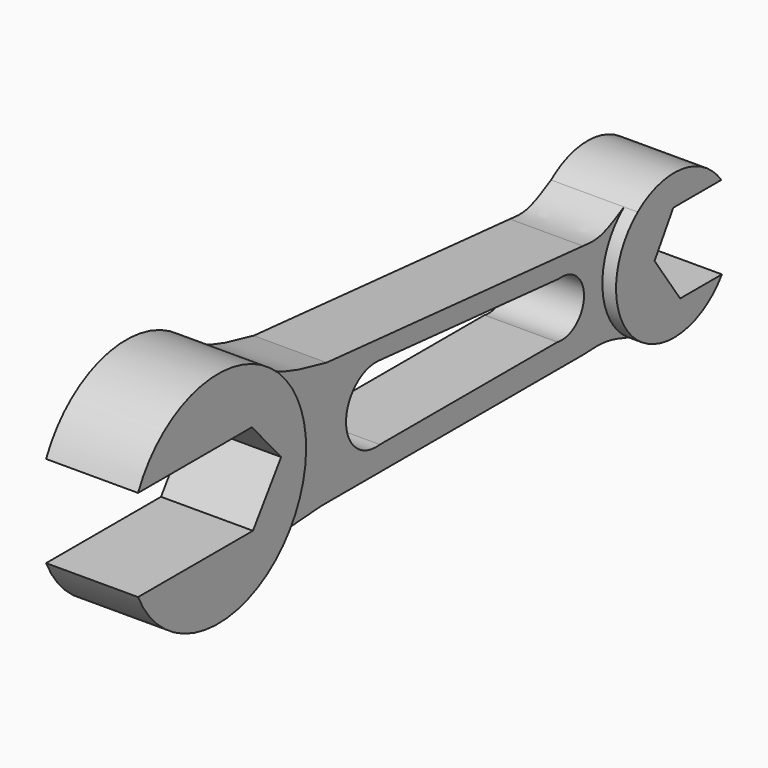
from build123d import *

# Parameters (mm, degrees)
F1_DEPTH = 19.77278
F2_DEPTH = 15.68583
F3_DEPTH = 18.63252


with BuildPart() as f1:
    # F0 (on Right) → F1 (new body)
    with BuildSketch(Plane.YZ):
        with BuildLine():
            ThreePointArc((-24.6550113916, -20.6403282086), (-14.2899358418, -2.9499328055), (-21.631764082, 16.1937982509))
            ThreePointArc((-21.631764082, 16.1937982509), (-42.3952279546, 22.2110941878), (-59.3834631145, 8.8421320543))
            Line((-59.3834631145, 8.8421320543), (-28.7830121815, 8.8421320543))
            Line((-28.7830121815, 8.8421320543), (-20.9254194051, 0))
            Line((-20.9254194051, 0), (-28.4993667156, -10.8708310872))
            Line((-28.4993667156, -10.8708310872), (-59.3834631145, -10.8708310872))
            ThreePointArc((-59.3834631145, -10.8708310872), (-44.2799639395, -23.7919746243), (-24.6550113916, -20.6403282086))
        make_face()
    extrude(amount=F1_DEPTH)

    # F0 (on Right) → F2 (join)
    with BuildSketch(Plane.YZ):
        with BuildLine():
            ThreePointArc((77.5488621059, -18.7172400394), (70.5319981338, -6.4315126272), (76.3324780773, 6.4731342287))
            add(Edge.make_bspline(
                [(65.274477005, 3.5741054453), (66.7329266753, 3.4044171276), (70.0264053954, 3.0170299241), (74.0730411994, 5.2423594483), (76.3324780773, 6.4731342287)],
                knots=[0, 0, 0, 0, 0.4431105797, 1, 1, 1, 1], degree=3))
            Line((65.274477005, 3.5741054453), (-3.5807129461, 9.5008024946))
            add(Edge.make_bspline(
                [(-3.5807129461, 9.5008024946), (-8.1850167721, 10.4946023635), (-16.0626627691, 12.1809603216), (-19.9918558673, 15.0252283967), (-21.631764082, 16.1937982509)],
                knots=[0, 0, 0, 0, 0.5850187294, 1, 1, 1, 1], degree=3))
            ThreePointArc((-21.631764082, 16.1937982509), (-14.2899358418, -2.9499328055), (-24.6550113916, -20.6403282086))
            add(Edge.make_bspline(
                [(-5.0028073601, -17.0401390642), (-9.3359102028, -17.2862450952), (-17.1312640888, -17.7232079089), (-22.3392021757, -19.7477540646), (-24.6550113916, -20.6403282086)],
                knots=[0, 0, 0, 0, 0.5559843151, 1, 1, 1, 1], degree=3))
            Line((-5.0028073601, -17.0401390642), (65.274477005, -17.0401390642))
            add(Edge.make_bspline(
                [(65.274477005, -17.0401390642), (67.2859868291, -16.906336394), (71.3774576279, -16.6405736864), (75.4718135628, -18.0105027903), (77.5488621059, -18.7172400394)],
                knots=[0, 0, 0, 0, 0.4914160588, 1, 1, 1, 1], degree=3))
        make_face()
        with BuildLine():
            ThreePointArc((58.8446073234, 0), (65.572685649, -6.1609610629), (58.4222972393, -11.8263317272))
            Line((58.4222972393, -11.8263317272), (10.7007976621, -11.8263317272))
            ThreePointArc((10.7007976621, -11.8263317272), (1.6295820492, -4.0135137585), (10.365163526, 4.1728586721))
            Line((10.365163526, 4.1728586721), (58.8446073234, 0))
        make_face(mode=Mode.SUBTRACT)
    extrude(amount=F2_DEPTH)

    # F0 (on Right) → F3 (join)
    with BuildSketch(Plane.YZ):
        with BuildLine():
            Line((85.8887135983, 3.4065102227), (98.7935736775, 3.4065102227))
            ThreePointArc((98.7935736775, 3.4065102227), (88.2234276148, 9.7768503479), (76.3324780773, 6.4731342287))
            ThreePointArc((76.3324780773, 6.4731342287), (70.5319981338, -6.4315126272), (77.5488621059, -18.7172400394))
            ThreePointArc((77.5488621059, -18.7172400394), (89.1096263343, -20.9880157606), (98.9611595869, -14.5262060687))
            Line((98.9611595869, -14.5262060687), (87.73227036, -14.5262060687))
            Line((87.73227036, -14.5262060687), (80.8608531952, -4.6380725689))
            Line((80.8608531952, -4.6380725689), (85.8887135983, 3.4065102227))
        make_face()
    extrude(amount=F3_DEPTH)


solid = f1.part
